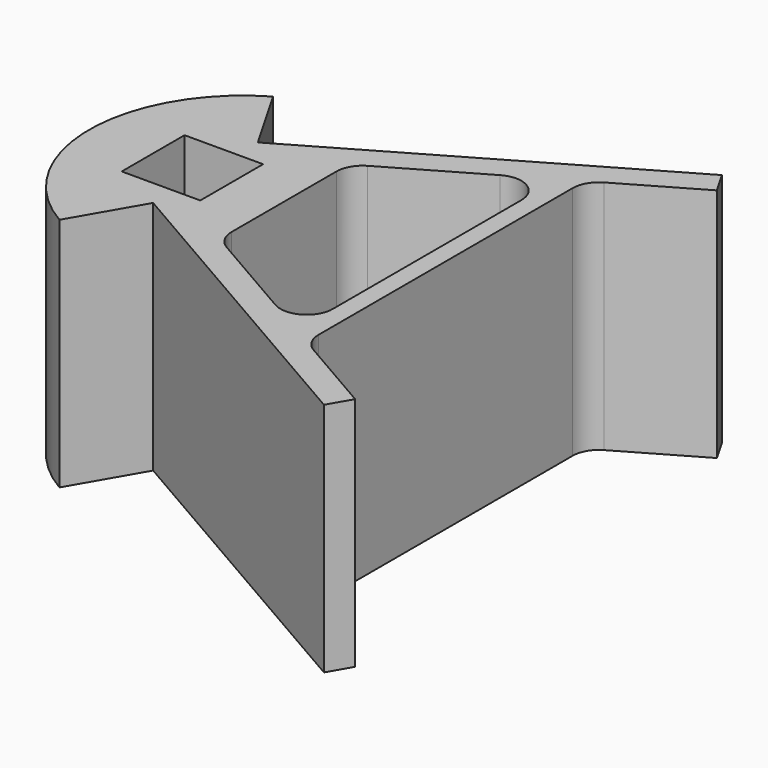
from build123d import *

# Parameters (mm, degrees)
PAD_DEPTH = 45


with BuildPart() as part:
    # Sketch → Pad (new body)
    with BuildSketch(Plane.XY):
        with BuildLine():
            Line((-7.216883, 60.000014), (53.404888, 95.000027))
            Line((53.404888, 95.000027), (55.904888, 90.669901))
            Line((55.904888, 90.669901), (41.155181, 82.154148))
            ThreePointArc((41.155181, 82.154148), (39.32506, 80.324024), (38.655188, 77.824031))
            Line((38.655188, 77.824031), (38.655188, 17.175997))
            ThreePointArc((38.655188, 17.175997), (39.32506, 14.676003), (41.155181, 12.845879))
            Line((41.155181, 12.845879), (55.904888, 4.330126))
            Line((53.404888, 0), (55.904888, 4.330126))
            Line((-7.216883, 35.000014), (53.404888, 0))
            Line((-7.216883, 35.000014), (-14.716886, 22.009634))
            ThreePointArc((-14.716886, 72.990393), (-29.433759, 47.500014), (-14.716886, 22.009634))
            Line((-7.216883, 60.000014), (-14.716886, 72.990393))
        make_face()
        with BuildLine():
            Line((27.603603, 20.66989), (10.283122, 30.669879))
            ThreePointArc((7.783098, 35.000014), (8.45298, 32.500005), (10.283122, 30.669879))
            Line((7.783098, 60.000014), (7.783098, 35.000014))
            ThreePointArc((10.283122, 64.330148), (8.45298, 62.500022), (7.783098, 60.000014))
            Line((10.283122, 64.330148), (27.603603, 74.330137))
            ThreePointArc((35.1036, 70.000014), (32.603599, 74.330136), (27.603603, 74.330137))
            Line((35.1036, 70.000014), (35.1036, 25.000014))
            ThreePointArc((27.603603, 20.66989), (32.603599, 20.669891), (35.1036, 25.000014))
        make_face(mode=Mode.SUBTRACT)
        Polygon((-17.216902, 55.000014), (-2.216902, 55.000014), (-2.216902, 47.500014), (-2.216902, 40.000014), (-17.216902, 40.000014), align=None, mode=Mode.SUBTRACT)
    extrude(amount=PAD_DEPTH)


solid = part.part
